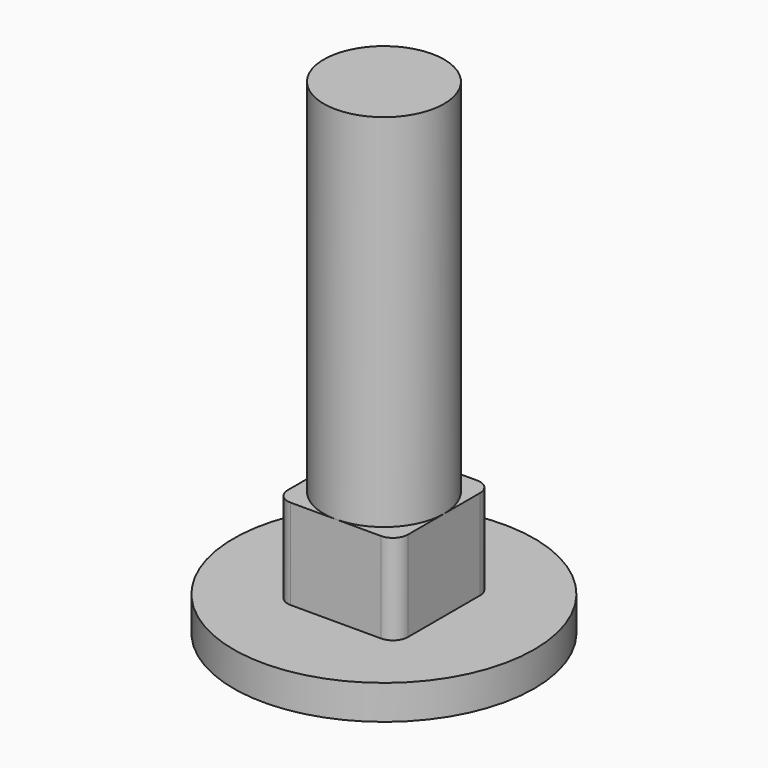
from build123d import *

# Parameters (mm, degrees)
SKETCH_R     = 4
PAD_DEPTH    = 30
SKETCH001_W  = 8
SKETCH001_H  = 8
PAD001_DEPTH = 6
SKETCH002_R  = 10
PAD002_DEPTH = 10
FILLET_R     = 1


with BuildPart() as body001:
    # Sphere → Sphere (revolve)
    with BuildSketch(Plane.XZ):
        with BuildLine():
            ThreePointArc((0, -30), (30, 0), (0, 30))
            Line((0, 30), (0, -30))
        make_face()
    revolve(axis=Axis((0, 0, 0), (0, 0, 1)))


with BuildPart() as body001_1:
    # Body001 placement: moved
    add(body001.part.moved(Location((0, 0, 26))))


with BuildPart() as fillet_body:
    # Sketch → Pad (new body)
    with BuildSketch(Plane.XY):
        Circle(SKETCH_R)
    extrude(amount=PAD_DEPTH)

    # Sketch001 → Pad001 (join)
    with BuildSketch(Plane.XY):
        Rectangle(SKETCH001_W, SKETCH001_H)
    extrude(amount=PAD001_DEPTH)

    # Sketch002 → Pad002 (join)
    with BuildSketch(Plane.XY):
        Circle(SKETCH002_R)
    extrude(amount=-PAD002_DEPTH)

    # Common: intersect Body001
    add(body001_1.part, mode=Mode.INTERSECT)

    # Fillet
    fillet_edges = [fillet_body.edges().sort_by_distance(p)[0] for p in [
        (4, 4, 3),
        (-4, 4, 3),
        (-4, -4, 3),
        (4, -4, 3),
    ]]
    fillet(fillet_edges, radius=FILLET_R)


solid = fillet_body.part
